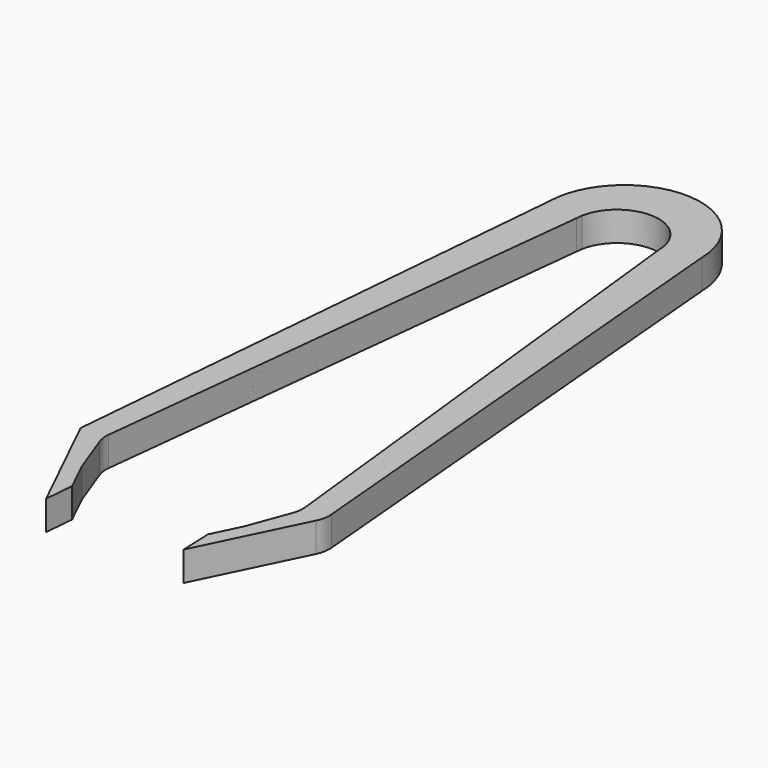
from build123d import *

# Parameters (mm, degrees)
F1_DEPTH = 5
F2_ANGLE = 5
F4_DEPTH = 5
F5_R     = 5


with BuildPart() as f1:
    # F0 (on Top) → F1 (new body)
    with BuildSketch(Plane.XY):
        Polygon((-3, -61.2802159786), (0, -66.2802159786), (0, -61.2802159786), (-3, -56.2802159786), (-6.7174363314, -48.4178220929), (-4.7174363314, 41.5821779071), (-10.7174363314, 41.5821779071), (-10.7174363314, -48.4178220929), align=None)
    extrude(amount=F1_DEPTH)


with BuildPart() as f1_1:
    # F2: moved
    add(f1.part.rotate(Axis((-4.7174363314, 41.5821779071, 2.5), (0, 0, -1)), F2_ANGLE))


with BuildPart() as f4:
    # F3 (on Top) → F4 (new body)
    with BuildSketch(Plane.XY):
        with BuildLine():
            ThreePointArc((9.236862883, 41.5821779071), (9.3115479095, 41.0733527812), (9.3491754611, 40.5604541271))
            Line((9.3491754611, 40.5604541271), (19.0732691264, -47.9010334357))
            Line((19.0732691264, -47.9010334357), (16.0552315415, -56.0575044635))
            Line((16.0552315415, -56.0575044635), (13.7213274164, -60.8504095992))
            Line((13.7213274164, -60.8504095992), (13.9382048747, -66.2809186727))
            Line((13.9382048747, -66.2809186727), (23.0580479188, -47.5524104647))
            Line((23.0580479188, -47.5524104647), (15.2140310715, 42.1051123636))
            ThreePointArc((15.2140310715, 42.1051123636), (2.2597132758, 54.7974558397), (-10.69460452, 42.1051123636))
            Line((-10.69460452, 42.1051123636), (-18.5386213673, -47.5524104647))
            Line((-18.5386213673, -47.5524104647), (-9.4187783231, -66.2809186727))
            Line((-9.4187783231, -66.2809186727), (-9.2019008648, -60.8504095992))
            Line((-9.2019008648, -60.8504095992), (-11.5358049899, -56.0575044635))
            Line((-11.5358049899, -56.0575044635), (-14.5538425749, -47.9010334357))
            Line((-14.5538425749, -47.9010334357), (-4.8297489096, 40.5604541271))
            ThreePointArc((-4.8297489096, 40.5604541271), (-4.7921213579, 41.0733527812), (-4.7174363314, 41.5821779071))
            ThreePointArc((-4.7174363314, 41.5821779071), (2.2597132758, 47.3924945109), (9.236862883, 41.5821779071))
        make_face()
    extrude(amount=F4_DEPTH)

    # F5
    f5_edges = [f4.edges().sort_by_distance(p)[0] for p in [
        (-18.538621, -47.55241, 2.5),
        (-14.553843, -47.901033, 2.5),
        (19.073269, -47.901033, 2.5),
        (23.058048, -47.55241, 2.5),
    ]]
    fillet(f5_edges, radius=F5_R)


solid = Compound([f1_1.part, f4.part])
